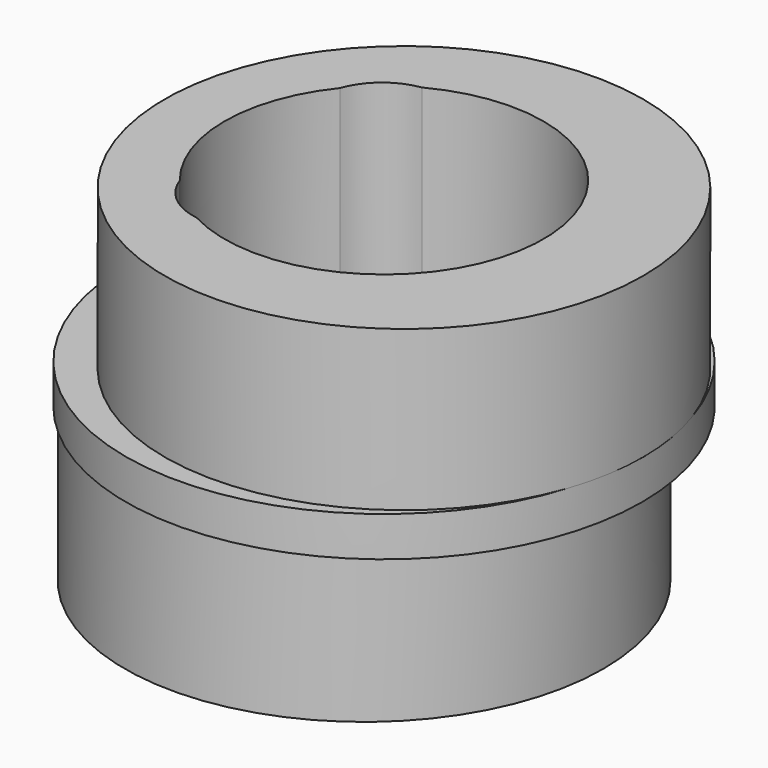
from build123d import *

# Parameters (mm, degrees)
SKETCH_R        = 6
PAD_DEPTH       = 4
SKETCH001_R     = 6.47535
PAD001_DEPTH    = 1
SKETCH002_R     = 6
PAD002_DEPTH    = 4
SKETCH003_R     = 4
POCKET_DEPTH    = 9.001
PAD003_DEPTH    = 4
SKETCH005_R     = 1.55
POCKET001_DEPTH = 9.001


with BuildPart() as part:
    # Sketch → Pad (new body)
    with BuildSketch(Plane.XY):
        with Locations((0.5, 0)):
            Circle(SKETCH_R)
    extrude(amount=-PAD_DEPTH)

    # Sketch001 (on Face3 of Pad) → Pad001 (join)
    with BuildSketch(Plane(origin=(0, 0, -4), x_dir=(1, 0, 0), z_dir=(0, 0, -1))):
        Circle(SKETCH001_R)
    extrude(amount=PAD001_DEPTH)

    # Sketch002 (on Face6 of Pad001) → Pad002 (join)
    with BuildSketch(Plane(origin=(0, 0, -5), x_dir=(1, 0, 0), z_dir=(0, 0, -1))):
        with Locations((-0.5, 0)):
            Circle(SKETCH002_R)
    extrude(amount=PAD002_DEPTH)

    # Sketch003 (on Face2 of Pad002) → Pocket (cut, through all)
    with BuildSketch(Plane.XY):
        Circle(SKETCH003_R)
    extrude(amount=-POCKET_DEPTH, mode=Mode.SUBTRACT)

    # Sketch004 (on Face7 of Pocket) → Pad003 (join)
    with BuildSketch(Plane(origin=(0, 0, -9), x_dir=(1, 0, 0), z_dir=(0, 0, -1))):
        with BuildLine():
            ThreePointArc((-3, 2.645751), (-4, 0), (-3, -2.645751))
            Line((-3, 2.645751), (-3, -2.645751))
        make_face()
    extrude(amount=-PAD003_DEPTH)

    # Sketch005 (on Face7 of Pad003) → Pocket001 (cut, through all)
    with BuildSketch(Plane(origin=(0, 0, -9), x_dir=(1, 0, 0), z_dir=(0, 0, -1))):
        with Locations((-1.65, 2)):
            Circle(SKETCH005_R)
        with Locations((-1.65, -2)):
            Circle(SKETCH005_R)
    extrude(amount=-POCKET001_DEPTH, mode=Mode.SUBTRACT)


solid = part.part
